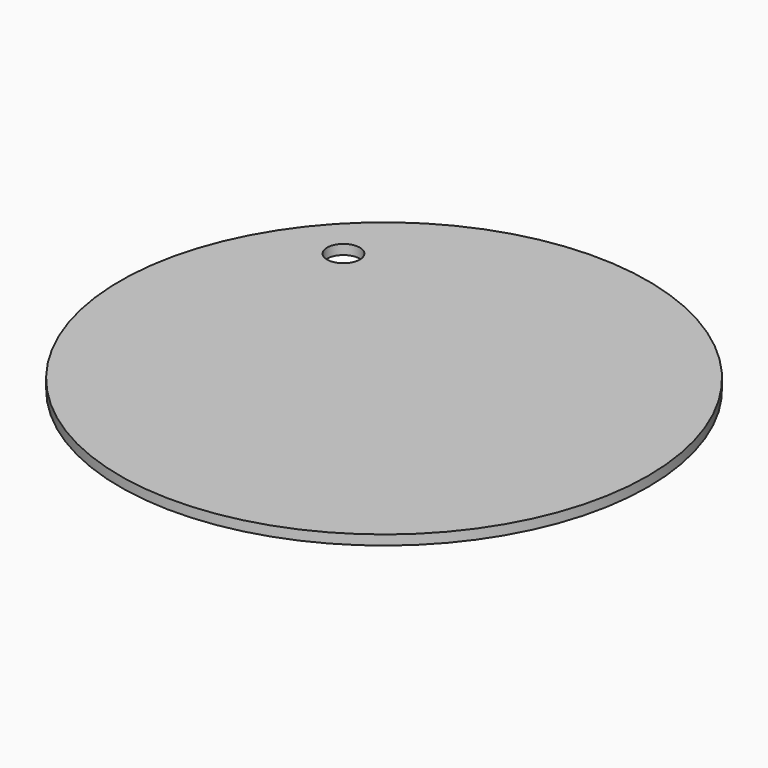
from build123d import *

# Parameters (mm, degrees)
F0_R     = 80.723069
F1_DEPTH = 3
F2_R     = 3
F3_DEPTH = 3
F5_D     = 10


with BuildPart() as f1:
    # F0 (on Top) → F1 (new body)
    with BuildSketch(Plane.XY):
        with Locations((-61.535046, 32.258771)):
            Circle(F0_R)
    extrude(amount=F1_DEPTH)

    # F2 (on face) → F3 (join)
    with BuildSketch(Plane.XY.offset(3)):
        with Locations((-128.833771, 47.312688)):
            Circle(F2_R)
    extrude(amount=-F3_DEPTH)

    # F5 (through all)
    with Locations(Plane.XY.offset(3)):
        with Locations((-109.434292, 76.603003)):
            Hole(F5_D / 2)


solid = f1.part
